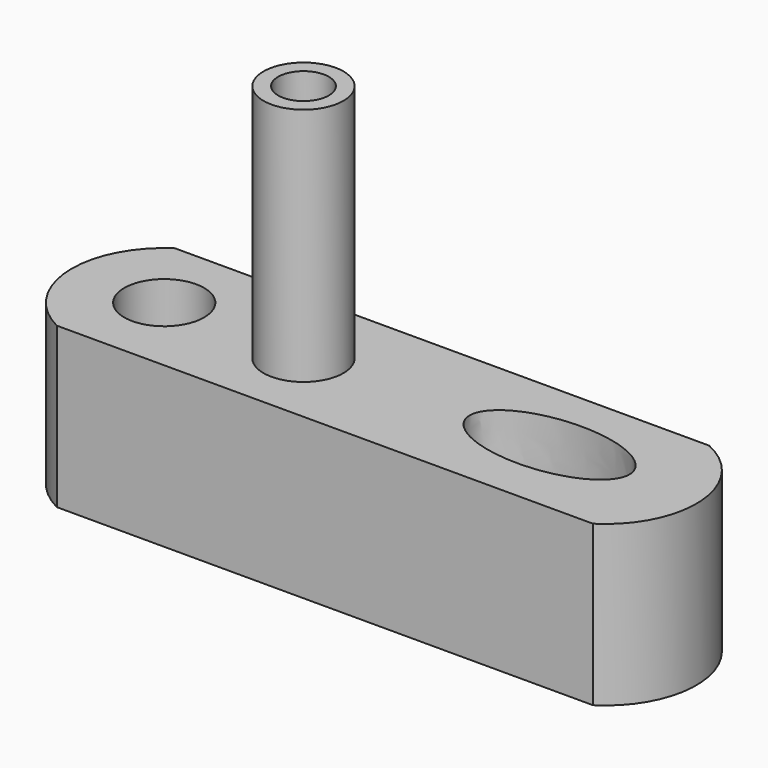
from build123d import *

# Parameters (mm, degrees)
F0_W      = 101.6
F0_H      = 25.4
F1_DEPTH  = 25.4
F3_DEPTH  = 25.4
F5_DEPTH  = 25.4
F6_R      = 6.35
F7_DEPTH  = 25.4
F9_DEPTH  = 25.4
F10_R     = 6.35
F11_DEPTH = 38.1
F12_R     = 4.026604
F13_DEPTH = 25.4


with BuildPart() as f1:
    # F0 (on Front) → F1 (new body)
    with BuildSketch(Plane.XZ):
        with Locations((50.8, 12.7)):
            Rectangle(F0_W, F0_H)
    extrude(amount=F1_DEPTH)

    # F2 (on face) → F3 (cut)
    with BuildSketch(Plane.XY.offset(25.4)):
        with BuildLine():
            ThreePointArc((92.245728, 0), (100.736841, -12.147069), (94.10283, -25.4))
            Line((94.10283, -25.4), (101.6, -25.4))
            Line((101.6, -25.4), (101.6, 0))
            Line((101.6, 0), (92.245728, 0))
        make_face()
    extrude(amount=-F3_DEPTH, mode=Mode.SUBTRACT)

    # F4 (on face) → F5 (cut)
    with BuildSketch(Plane.XY.offset(25.4)):
        with BuildLine():
            ThreePointArc((8.879754, -25.4), (0.770196, -13.146957), (7.332172, 0))
            Line((7.332172, 0), (0, 0))
            Line((0, 0), (0, -25.4))
            Line((0, -25.4), (8.879754, -25.4))
        make_face()
    extrude(amount=-F5_DEPTH, mode=Mode.SUBTRACT)

    # F6 (on face) → F7 (cut)
    with BuildSketch(Plane.XY.offset(25.4)):
        with Locations((15.431477, -12.253668)):
            Circle(F6_R)
    extrude(amount=-F7_DEPTH, mode=Mode.SUBTRACT)

    # F8 (on face) → F9 (cut)
    with BuildSketch(Plane.XY.offset(25.4)):
        with BuildLine():
            add(Edge.make_bspline(
                [(89.363859, -12.2259), (89.363859, -1.227377), (70.313859, -6.726639), (51.263859, -12.2259), (70.313859, -17.725161), (89.363859, -23.224422), (89.363859, -12.2259)],
                knots=[0, 0, 0, 2.094395, 2.094395, 4.18879, 4.18879, 6.283185, 6.283185, 6.283185], degree=2, weights=[1, 0.5, 1, 0.5, 1, 0.5, 1]))
        make_face()
    extrude(amount=-F9_DEPTH, mode=Mode.SUBTRACT)

    # F10 (on face) → F11 (join)
    with BuildSketch(Plane.XY.offset(25.4)):
        with Locations((38.283817, -13.146957)):
            Circle(F10_R)
    extrude(amount=F11_DEPTH)

    # F12 (on face) → F13 (cut)
    with BuildSketch(Plane.XY.offset(63.5)):
        with Locations((38.283817, -13.146957)):
            Circle(F12_R)
    extrude(amount=-F13_DEPTH, mode=Mode.SUBTRACT)


solid = f1.part
